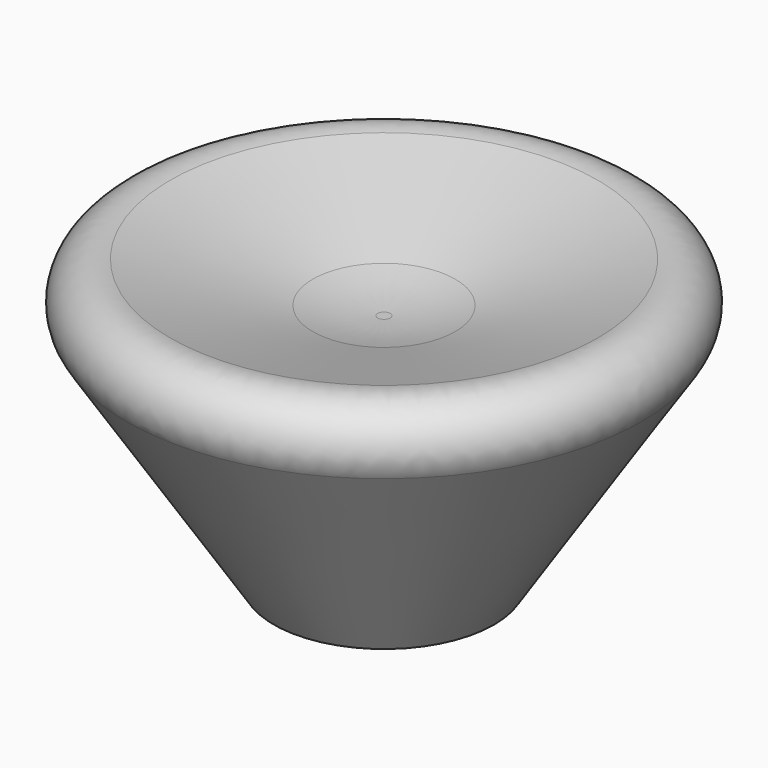
from build123d import *

# Parameters (mm, degrees)
F2_R    = 5
F3_R    = 30
F4_SIZE = 5


with BuildPart() as f1:
    # F0 (on Front) → F1 (revolve)
    with BuildSketch(Plane.XZ):
        Polygon((4, 20), (4, 0), (14, 0), (40, 40), (5, 30), (0, 30), (0, 25), align=None)
    revolve(axis=Axis((0, 0, 22.69237), (0, 0, 1)))

    # F2
    f2_edges = [f1.edges().sort_by_distance(p)[0] for p in [
        (-40, 0, 40),
    ]]
    fillet(f2_edges, radius=F2_R)

    # F3
    f3_edges = [f1.edges().sort_by_distance(p)[0] for p in [
        (-5, 0, 30),
    ]]
    fillet(f3_edges, radius=F3_R)

    # F4
    f4_edges = [f1.edges().sort_by_distance(p)[0] for p in [
        (-4, 0, 0),
    ]]
    chamfer(f4_edges, length=F4_SIZE)


solid = f1.part
